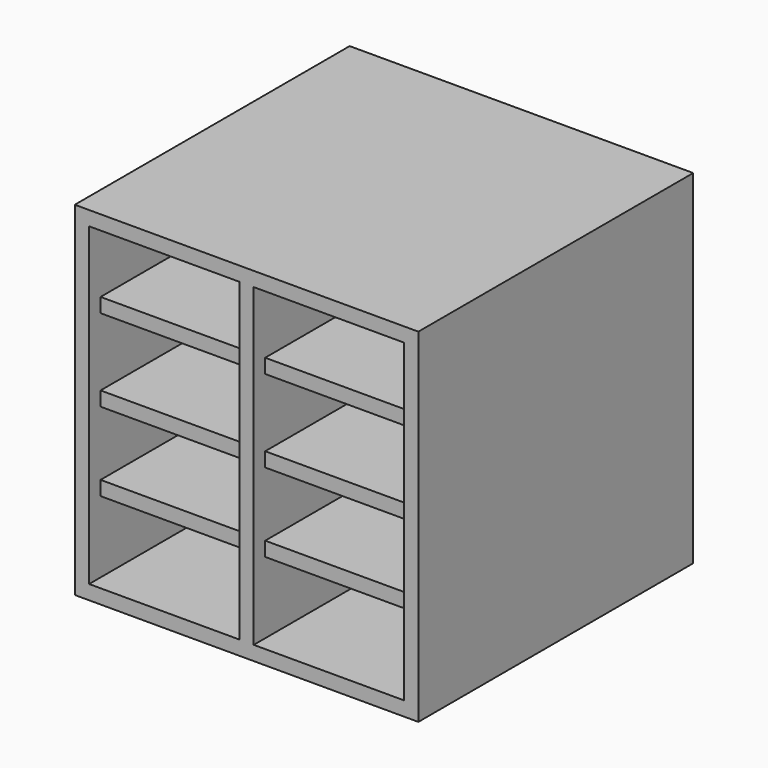
from build123d import *

# Parameters (mm, degrees)
F0_W     = 152.4
F0_H     = 152.4
F1_DEPTH = 76.2
F2_T     = -6.35
F3_W     = 6.35
F3_H     = 139.7
F4_DEPTH = 152.4
F5_W     = 139.7
F5_H     = 6.35
F6_DEPTH = 139.7
F7_DEPTH = 63.5
F8_W     = 152.4
F8_H     = 6.35
F9_DEPTH = 152.4


with BuildPart() as f1:
    # F0 (on Front) → F1 (new body, symmetric)
    with BuildSketch(Plane.XZ):
        Rectangle(F0_W, F0_H)
    extrude(amount=F1_DEPTH, both=True)

    # F2
    f2_openings = [f1.faces().sort_by_distance(p)[0] for p in [
        (0, -76.2, 0),
    ]]
    offset(amount=F2_T, openings=f2_openings)

    # F3 (on face) → F4 (join)
    with BuildSketch(Plane.XZ.offset(76.2)):
        Rectangle(F3_W, F3_H)
    extrude(amount=-F4_DEPTH)

    # F5 (on face) → F6 (join)
    with BuildSketch(Plane.YZ.offset(-69.85)):
        Rectangle(F5_W, F5_H)
        Polygon((-69.85, 33.3375), (69.85, 33.3375), (69.85, 36.5125), (69.85, 39.6875), (-69.85, 39.6875), (-69.85, 36.5125), align=None)
        with Locations((0, -34.925)):
            Rectangle(F5_W, F5_H)
    extrude(amount=F6_DEPTH)

    # F7 (cut, symmetric): faces of the model
    f7_faces = [f1.faces().sort_by_distance(p)[0] for p in [
        (-36.5125, 69.85, -53.975),
        (-36.5125, 69.85, -17.4625),
        (-36.5125, 69.85, 18.25625),
        (-36.5125, 69.85, 54.76875),
        (36.5125, 69.85, 54.76875),
        (36.5125, 69.85, 18.25625),
        (36.5125, 69.85, -17.4625),
        (36.5125, 69.85, -53.975),
    ]]
    extrude(f7_faces, amount=F7_DEPTH, both=True, mode=Mode.SUBTRACT)

    # F8 (on face) → F9 (join)
    with BuildSketch(Plane.XY.offset(76.2)):
        Rectangle(F8_W, F8_H)
    extrude(amount=-F9_DEPTH)


solid = f1.part
